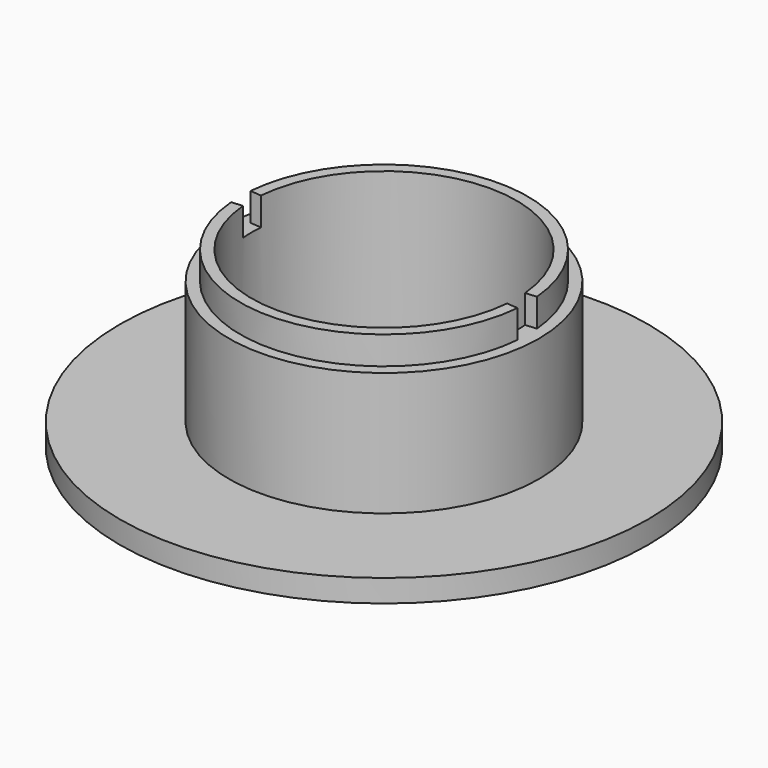
from build123d import *

# Parameters (mm, degrees)
F3_DEPTH = 2.5
F4_W     = 9.8994949366
F4_H     = 9.8994949366
F5_DEPTH = 2.001


with BuildPart() as f1:
    # F0 (on Front) → F1 (revolve)
    with BuildSketch(Plane.XZ):
        Polygon((-23.5, 0), (0, 0), (0, 2), (-11.79, 2), (-11.79, 13), (-11.79, 15.5), (-12.79, 15.5), (-12.79, 13), (-13.79, 13), (-13.79, 2), (-23.5, 2), align=None)
    revolve(axis=Axis((0, 0, 1), (0, 0, 1)))

    # F2 (on face) → F3 (cut, through all)
    with BuildSketch(Plane.XY.offset(15.5)):
        with BuildLine():
            Line((-11.7476165971, 0.9988014258), (-12.7440217368, 1.0835174076))
            ThreePointArc((-12.7440217368, 1.0835174076), (-12.79, 0), (-12.7440217368, -1.0835174076))
            Line((-12.7440217368, -1.0835174076), (-11.7476165971, -0.9988014258))
            ThreePointArc((-11.7476165971, -0.9988014258), (-11.79, 0), (-11.7476165971, 0.9988014258))
        make_face()
        with BuildLine():
            ThreePointArc((12.7440217368, -1.0835174076), (12.7785002644, -0.5422462479), (12.79, 0))
            ThreePointArc((12.79, 0), (12.7785002644, 0.5422462479), (12.7440217368, 1.0835174076))
            Line((12.7440217368, 1.0835174076), (11.7476165971, 0.9988014258))
            ThreePointArc((11.7476165971, 0.9988014258), (11.7793993837, 0.4998501378), (11.79, 0))
            ThreePointArc((11.79, 0), (11.7793993837, -0.4998501378), (11.7476165971, -0.9988014258))
            Line((11.7476165971, -0.9988014258), (12.7440217368, -1.0835174076))
        make_face()
    extrude(amount=-F3_DEPTH, mode=Mode.SUBTRACT)

    # F4 (on face) → F5 (cut, through all)
    with BuildSketch(Plane.XY.offset(2)):
        Rectangle(F4_W, F4_H)
    extrude(amount=-F5_DEPTH, mode=Mode.SUBTRACT)


solid = f1.part
